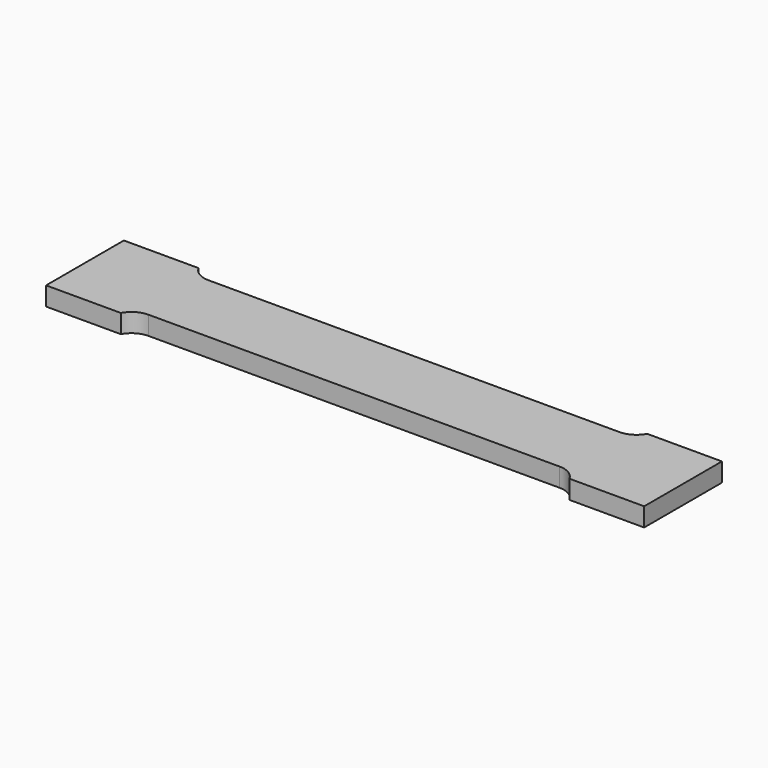
from build123d import *

# Parameters (mm, degrees)
PAD_DEPTH = 2.5


with BuildPart() as part:
    # Sketch → Pad (new body, symmetric)
    with BuildSketch(Plane.XY):
        with BuildLine():
            Line((-80, -13), (-60.002014, -13))
            ThreePointArc((-55, -10), (-57.916341, -10.807497), (-60.002014, -13))
            Line((55, -10), (-55, -10))
            ThreePointArc((60.002014, -13), (57.916341, -10.807497), (55, -10))
            Line((80, -13), (60.002014, -13))
            Line((80, 13), (80, -13))
            Line((80, 13), (60.002014, 13))
            ThreePointArc((55, 10), (57.916341, 10.807497), (60.002014, 13))
            Line((-55, 10), (55, 10))
            ThreePointArc((-60, 13), (-57.915475, 10.807541), (-55, 10))
            Line((-80, 13), (-60, 13))
            Line((-80, 13), (-80, -13))
        make_face()
    extrude(amount=PAD_DEPTH, both=True)


solid = part.part
